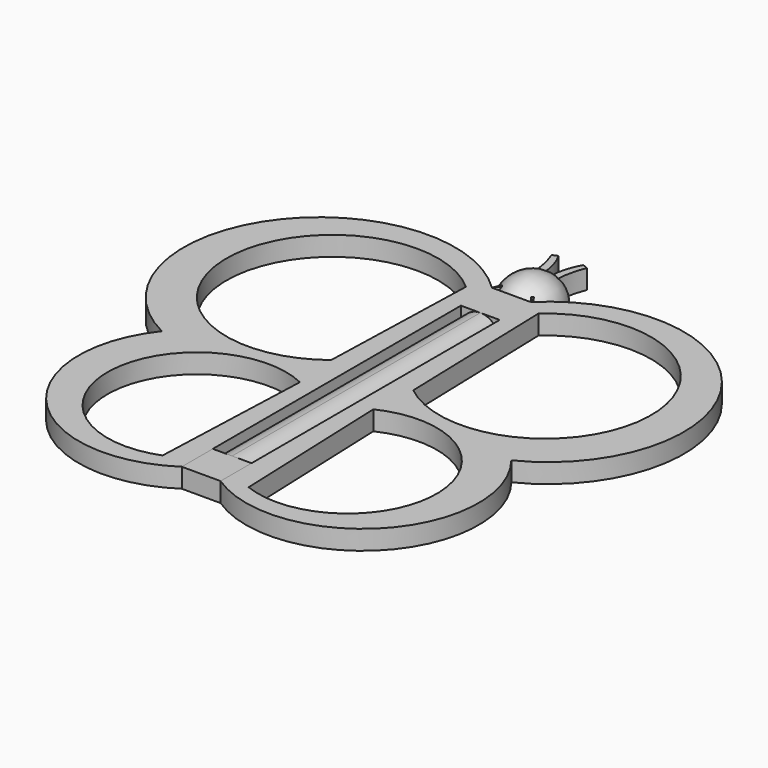
from build123d import *

# Parameters (mm, degrees)
F0_W      = 5.08
F0_H      = 5.08
F1_DEPTH  = 2.54
F3_DEPTH  = 40.64
F5_DEPTH  = 2.54
F7_ANGLE  = 180
F9_DEPTH  = 2.541
F11_DEPTH = 2.54


with BuildPart() as f1:
    # F0 (on Top) → F1 (new body)
    with BuildSketch(Plane.XY):
        with Locations((0, 22.86)):
            Rectangle(F0_W, F0_H)
    extrude(amount=F1_DEPTH)



with BuildPart() as f1b:
    # F0 (on Top) → F1, piece 2 (new body)
    with BuildSketch(Plane.XY):
        with Locations((0, -22.86)):
            Rectangle(F0_W, F0_H)
    extrude(amount=F1_DEPTH)


with BuildPart() as f3:
    # F2 (on face) → F3 (new body)
    with BuildSketch(Plane.XZ.offset(-20.32)):
        with BuildLine():
            Line((-2.54, 0), (2.54, 0))
            ThreePointArc((2.54, 0), (1.7960512242, 1.7960512242), (0, 2.54))
            ThreePointArc((0, 2.54), (-1.7960512242, 1.7960512242), (-2.54, 0))
        make_face()
    extrude(amount=F3_DEPTH)


with BuildPart() as f5:
    # F4 (on Top) → F5 (new body)
    with BuildSketch(Plane.XY):
        with BuildLine():
            Line((2.54, 25.4), (2.54, 0))
            ThreePointArc((2.54, 0), (13.3461006501, 2.3527166239), (22.8979042129, -3.2213425316))
            ThreePointArc((22.8979042129, -3.2213425316), (29.4721301313, 23.0055969217), (2.54, 25.4))
        make_face()
        with BuildLine():
            ThreePointArc((22.8979042129, -3.2213425316), (12.2045552637, -4.8615027279), (2.54, 0))
            Line((2.54, 0), (2.54, -25.4))
            ThreePointArc((2.54, -25.4), (22.1915272703, -23.0055969217), (22.8979042129, -3.2213425316))
        make_face()
        with BuildLine():
            ThreePointArc((22.8979042129, -3.2213425316), (13.3461006501, 2.3527166239), (2.54, 0))
            ThreePointArc((2.54, 0), (12.2045552637, -4.8615027279), (22.8979042129, -3.2213425316))
        make_face()
    extrude(amount=F5_DEPTH)


with BuildPart() as f5b:
    # F4 (on Top) → F5, piece 2 (new body)
    with BuildSketch(Plane.XY):
        with BuildLine():
            ThreePointArc((-22.8979042129, -3.2213425316), (-13.3461006501, 2.3527166239), (-2.54, 0))
            Line((-2.54, 0), (-2.54, 25.4))
            ThreePointArc((-2.54, 25.4), (-29.4721301313, 23.0055969217), (-22.8979042129, -3.2213425316))
        make_face()
        with BuildLine():
            ThreePointArc((-22.8979042129, -3.2213425316), (-12.2045552637, -4.8615027279), (-2.54, 0))
            ThreePointArc((-2.54, 0), (-13.3461006501, 2.3527166239), (-22.8979042129, -3.2213425316))
        make_face()
        with BuildLine():
            Line((-2.54, -25.4), (-2.54, 0))
            ThreePointArc((-2.54, 0), (-12.2045552637, -4.8615027279), (-22.8979042129, -3.2213425316))
            ThreePointArc((-22.8979042129, -3.2213425316), (-22.1915272703, -23.0055969217), (-2.54, -25.4))
        make_face()
    extrude(amount=F5_DEPTH)


with BuildPart() as f1_1:
    add(f1.part)

    add(f5.part)  # F7 merges F5

    add(f5b.part)  # F7 merges F5b
    # F6 (on Top) → F7 (revolve)
    with BuildSketch(Plane.XY):
        with BuildLine():
            Line((-2.54, 25.4), (0, 25.4))
            Line((0, 25.4), (0, 33.02))
            ThreePointArc((0, 33.02), (-3.5848140279, 29.981604676), (-2.54, 25.4))
        make_face()
    revolve(axis=Axis((0, 29.21, 0), (0, 1, 0)), revolution_arc=F7_ANGLE)

    # F8 (on face) → F9 (cut, through all)
    with BuildSketch(Plane.XY.offset(2.54)):
        with BuildLine():
            ThreePointArc((5.3731454536, 2.6145197917), (27.811651206, 13.9299432593), (4.7449972481, 23.9026471972))
            Line((4.7449972481, 23.9026471972), (5.3731454536, 2.6145197917))
        make_face()
        with BuildLine():
            ThreePointArc((5.634305533, -24.6752910316), (21.5630798604, -13.3210509721), (4.8107514158, -3.2213425316))
            Line((4.8107514158, -3.2213425316), (5.634305533, -24.6752910316))
        make_face()
        with BuildLine():
            Line((-5.634305533, -24.6752910316), (-4.8107514158, -3.2213425316))
            ThreePointArc((-4.8107514158, -3.2213425316), (-21.5630798604, -13.3210509721), (-5.634305533, -24.6752910316))
        make_face()
        with BuildLine():
            Line((-5.3731454536, 2.6145197917), (-4.7449972481, 23.9026471972))
            ThreePointArc((-4.7449972481, 23.9026471972), (-27.811651206, 13.9299432593), (-5.3731454536, 2.6145197917))
        make_face()
    extrude(amount=-F9_DEPTH, mode=Mode.SUBTRACT)


with BuildPart() as f11:
    # F10 (on face) → F11 (new body)
    with BuildSketch(Plane(origin=(0, 0, 0), x_dir=(1, 0, 0), z_dir=(0, 0, -1))):
        with BuildLine():
            ThreePointArc((2.3113794159, -34.8763428628), (1.4404560934, -30.1144022741), (2.54, -25.4))
            ThreePointArc((2.54, -25.4), (0.5274655699, -30.1380739153), (1.6213069903, -35.1682975888))
            Line((1.6213069903, -35.1682975888), (2.3113794159, -34.8763428628))
        make_face()
    extrude(amount=-F11_DEPTH)


with BuildPart() as f11b:
    # F10 (on face) → F11, piece 2 (new body)
    with BuildSketch(Plane(origin=(0, 0, 0), x_dir=(1, 0, 0), z_dir=(0, 0, -1))):
        with BuildLine():
            ThreePointArc((-1.6213069903, -35.1682975888), (-0.5274655699, -30.1380739153), (-2.54, -25.4))
            ThreePointArc((-2.54, -25.4), (-1.4404560934, -30.1144022741), (-2.3113794159, -34.8763428628))
            Line((-2.3113794159, -34.8763428628), (-1.6213069903, -35.1682975888))
        make_face()
    extrude(amount=-F11_DEPTH)


solid = Compound([f1b.part, f3.part, f1_1.part, f11.part, f11b.part])
